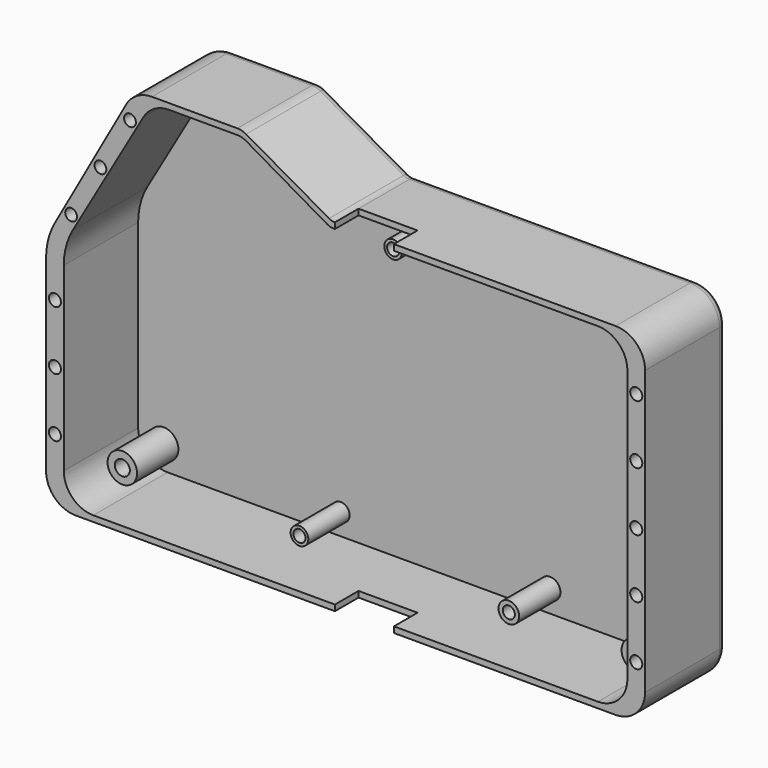
from build123d import *

# Parameters (mm, degrees)
PAD024_DEPTH    = 34.5
POCKET023_DEPTH = 31.5
SKETCH055_R     = 2.05
SKETCH055_R_2   = 2
POCKET024_DEPTH = 6.2
SKETCH057_R     = 3
SKETCH057_R_2   = 5
SKETCH057_R_3   = 3.5
PAD025_DEPTH    = 17.5
SKETCH058_R     = 2.55
SKETCH058_R_2   = 2.05
POCKET026_DEPTH = 6.2
FILLET001_R     = 3
SKETCH059_W     = 20
SKETCH059_H     = 10
POCKET027_DEPTH = 5
SKETCH060_W     = 20
SKETCH060_H     = 10
POCKET028_DEPTH = 5


with BuildPart() as part:
    # Sketch052 → Pad024 (new body)
    with BuildSketch(Plane.XZ):
        with BuildLine():
            ThreePointArc((-0.5, 13.5), (2.428932, 6.428932), (9.5, 3.5))
            Line((9.5, 3.5), (192.51, 3.5))
            ThreePointArc((192.51, 3.5), (199.581068, 6.428932), (202.51, 13.5))
            Line((202.51, 13.5), (202.51, 109.54))
            ThreePointArc((202.51, 109.54), (199.581068, 116.611068), (192.51, 119.54))
            Line((192.51, 119.54), (97.391395, 119.54))
            ThreePointArc((97.391395, 119.54), (96.36955, 119.672723), (95.415517, 120.062083))
            Line((95.415517, 120.062083), (67.291034, 136.040187))
            ThreePointArc((67.291034, 136.040187), (65.859984, 136.624227), (64.327218, 136.823311))
            Line((64.327218, 136.823311), (35.377399, 136.823311))
            ThreePointArc((35.377399, 136.823311), (30.31762, 135.448776), (26.64881, 131.703038))
            Line((26.64881, 131.703038), (2.447131, 88.412394))
            ThreePointArc((2.447131, 88.412394), (0.24888, 82.945607), (-0.5, 77.101188))
            Line((-0.5, 77.101188), (-0.5, 13.5))
        make_face()
    extrude(amount=PAD024_DEPTH)

    # Sketch054 (on Face16 of Pad024) → Pocket023 (cut)
    with BuildSketch(Plane.XZ.offset(34.5)):
        with BuildLine():
            ThreePointArc((5.5, 15.5), (8.428932, 8.428932), (15.5, 5.5))
            Line((15.5, 5.5), (186.51, 5.5))
            ThreePointArc((186.51, 5.5), (193.581068, 8.428932), (196.51, 15.5))
            Line((196.51, 15.5), (196.51, 107.54))
            ThreePointArc((196.51, 107.54), (193.581068, 114.611068), (186.51, 117.54))
            Line((186.51, 117.54), (96.852925, 117.54))
            ThreePointArc((96.852925, 117.54), (95.816521, 117.676599), (94.850903, 118.077066))
            Line((94.850903, 118.077066), (67.278075, 134.017712))
            ThreePointArc((67.278075, 134.017712), (65.829649, 134.618413), (64.275043, 134.823311))
            Line((64.275043, 134.823311), (41.153265, 134.823311))
            ThreePointArc((41.153265, 134.823311), (36.151908, 133.482781), (32.491444, 129.820596))
            Line((32.491444, 129.820596), (8.601898, 88.412711))
            ThreePointArc((8.601898, 88.412711), (6.288899, 82.824921), (5.5, 76.829005))
            Line((5.5, 76.829005), (5.5, 15.5))
        make_face()
    extrude(amount=-POCKET023_DEPTH, mode=Mode.SUBTRACT)

    # Sketch055 (on Face5 of Pocket023) → Pocket024 (cut)
    with BuildSketch(Plane.XZ.offset(34.5)):
        with Locations((199.51, 21.5)):
            Circle(SKETCH055_R)
        with Locations((199.51, 101.5)):
            Circle(SKETCH055_R)
        with Locations((199.51, 41.5)):
            Circle(SKETCH055_R)
        with Locations((199.51, 81.5)):
            Circle(SKETCH055_R)
        with Locations((199.51, 61.5)):
            Circle(SKETCH055_R)
        with Locations((2.5, 25.5)):
            Circle(SKETCH055_R)
        with Locations((2.5, 45.5)):
            Circle(SKETCH055_R)
        with Locations((2.5, 65.5)):
            Circle(SKETCH055_R)
        with Locations((7.984524, 92.743621)):
            Circle(SKETCH055_R_2)
        with Locations((17.909674, 110.107129)):
            Circle(SKETCH055_R_2)
        with Locations((27.944341, 127.407576)):
            Circle(SKETCH055_R_2)
    extrude(amount=-POCKET024_DEPTH, mode=Mode.SUBTRACT)

    # Sketch057 (on Face51 of Pocket024) → Pad025 (join)
    with BuildSketch(Plane.XZ.offset(3)):
        with Locations((74.17, 12.74)):
            Circle(SKETCH057_R)
        with Locations((64.332465, 127.473311)):
            Circle(SKETCH057_R_2)
        with Locations((105.902925, 108.54)):
            Circle(SKETCH057_R)
        with Locations((145.13, 13)):
            Circle(SKETCH057_R_3)
        with Locations((188.34, 14.18)):
            Circle(SKETCH057_R_2)
        with Locations((185.61, 111.04)):
            Circle(SKETCH057_R_2)
        with Locations((14.14, 13.53)):
            Circle(SKETCH057_R_2)
    extrude(amount=PAD025_DEPTH)

    # Sketch058 (on Face63 of Pad025) → Pocket026 (cut)
    with BuildSketch(Plane.XZ.offset(20.5)):
        with Locations((64.332465, 127.473311)):
            Circle(SKETCH058_R)
        with Locations((105.902925, 108.54)):
            Circle(SKETCH058_R_2)
        with Locations((14.14, 13.53)):
            Circle(SKETCH058_R)
        with Locations((74.17, 12.74)):
            Circle(SKETCH058_R_2)
        with Locations((145.13, 13)):
            Circle(SKETCH058_R_2)
        with Locations((188.34, 14.18)):
            Circle(SKETCH058_R)
        with Locations((185.61, 111.04)):
            Circle(SKETCH058_R)
    extrude(amount=-POCKET026_DEPTH, mode=Mode.SUBTRACT)

    # Fillet001
    fillet001_edges = [part.edges().sort_by_distance(p)[0] for p in [
        (2.428932, 0, 6.428932),
        (101.005, 0, 3.5),
        (199.581068, 0, 6.428932),
        (202.51, 0, 61.52),
        (199.581068, 0, 116.611068),
        (144.950697, 0, 119.54),
        (96.36955, 0, 119.672723),
        (81.353275, 0, 128.051135),
        (65.859984, 0, 136.624227),
        (49.852308, 0, 136.823311),
        (30.31762, 0, 135.448776),
        (14.54797, 0, 110.057716),
        (0.24888, 0, 82.945607),
        (-0.5, 0, 45.300594),
    ]]
    fillet(fillet001_edges, radius=FILLET001_R)

    # Sketch059 (on Face16 of Fillet001) → Pocket027 (cut)
    with BuildSketch(Plane(origin=(0, 0, 119.54), x_dir=(-1, 0, 0), z_dir=(0, 0, 1))):
        with Locations((-107.391395, 29.5)):
            Rectangle(SKETCH059_W, SKETCH059_H)
    extrude(amount=-POCKET027_DEPTH, mode=Mode.SUBTRACT)

    # Sketch060 (on Face5 of Pocket027) → Pocket028 (cut)
    with BuildSketch(Plane(origin=(0, 0, 3.5), x_dir=(1, 0, 0), z_dir=(0, 0, -1))):
        with Locations((107.391395, 29.5)):
            Rectangle(SKETCH060_W, SKETCH060_H)
    extrude(amount=-POCKET028_DEPTH, mode=Mode.SUBTRACT)


with BuildPart() as part_1:
    # Body006 placement: moved
    add(part.part.moved(Location((0, 20.5, 0))))


solid = part_1.part
